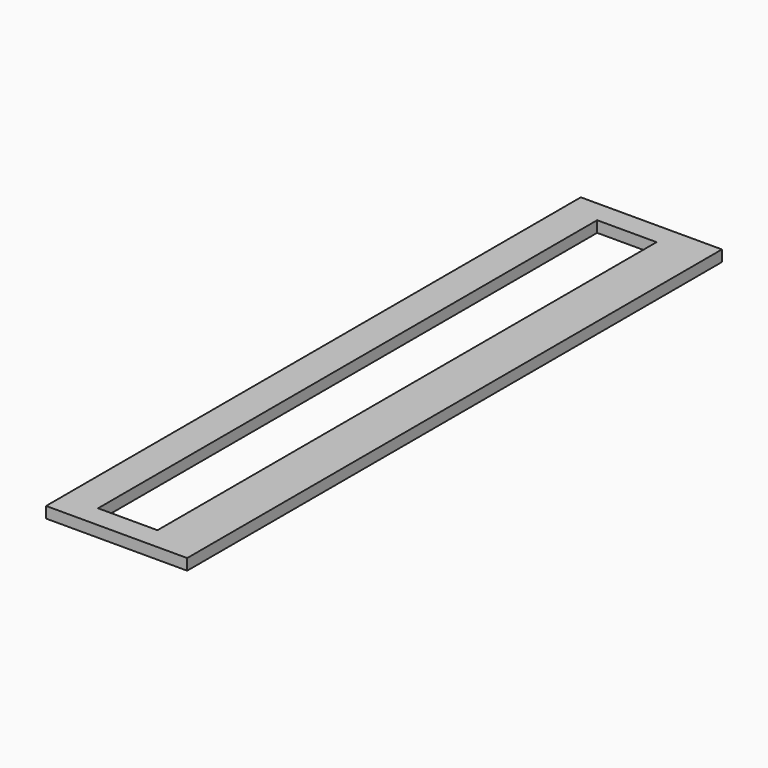
from build123d import *

# Parameters (mm, degrees)
F0_W     = 19
F0_H     = 90
F0_W_2   = 8
F0_H_2   = 84
F1_DEPTH = 1.5


with BuildPart() as f1:
    # F0 (on Top) → F1 (new body)
    with BuildSketch(Plane.XY):
        with Locations((0.9, 0)):
            Rectangle(F0_W, F0_H)
        Rectangle(F0_W_2, F0_H_2, mode=Mode.SUBTRACT)
    extrude(amount=F1_DEPTH)


solid = f1.part
